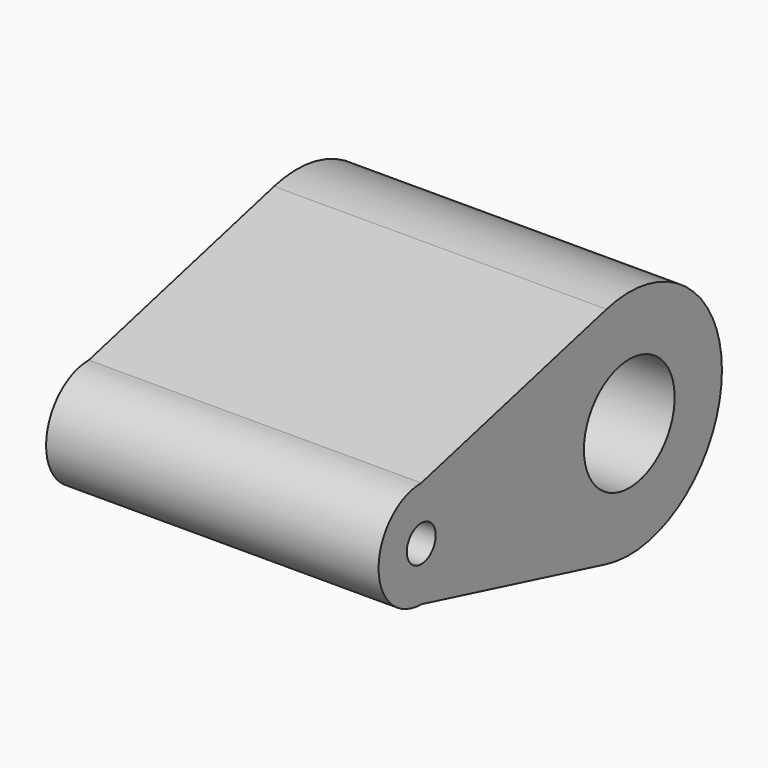
from build123d import *

# Parameters (mm, degrees)
F1_DEPTH = 50.8
F2_R     = 2.7639393044
F2_R_2   = 8.6653307134
F3_DEPTH = 79.502
F4_T     = -2.54


with BuildPart() as f1:
    # F0 (on Right) → F1 (new body)
    with BuildSketch(Plane.YZ):
        with BuildLine():
            ThreePointArc((0, -8.1618588303), (5.771305726, -5.771305726), (8.1618588303, 0))
            ThreePointArc((8.1618588303, 0), (5.771305726, 5.771305726), (0, 8.1618588303))
            ThreePointArc((0, 8.1618588303), (-8.1618588303, 0), (0, -8.1618588303))
        make_face()
        with BuildLine():
            ThreePointArc((57.4225941824, 0), (50.5917612932, 13.9660503324), (35.3738057369, 17.1479787622))
            ThreePointArc((35.3738057369, 17.1479787622), (22.0373280273, 0), (35.3738057369, -17.1479787622))
            ThreePointArc((35.3738057369, -17.1479787622), (50.5917612932, -13.9660503324), (57.4225941824, 0))
        make_face()
        with BuildLine():
            ThreePointArc((0, 8.1618588303), (5.771305726, 5.771305726), (8.1618588303, 0))
            ThreePointArc((8.1618588303, 0), (5.771305726, -5.771305726), (0, -8.1618588303))
            Line((0, -8.1618588303), (35.3738057369, -17.1479787622))
            ThreePointArc((35.3738057369, -17.1479787622), (22.0373280273, 0), (35.3738057369, 17.1479787622))
            Line((35.3738057369, 17.1479787622), (0, 8.1618588303))
        make_face()
    extrude(amount=F1_DEPTH)

    # F2 (on face) → F3 (cut)
    with BuildSketch(Plane(origin=(0, 0, 0), x_dir=(0, -1, 0), z_dir=(-1, 0, 0))):
        Circle(F2_R)
        with Locations((-39.7299611049, 0)):
            Circle(F2_R_2)
    extrude(amount=-F3_DEPTH, mode=Mode.SUBTRACT)

    # F4
    f4_openings = [f1.faces().sort_by_distance(p)[0] for p in [
        (0, 26.679648, 0),
    ]]
    offset(amount=F4_T, openings=f4_openings, kind=Kind.INTERSECTION)


solid = f1.part
